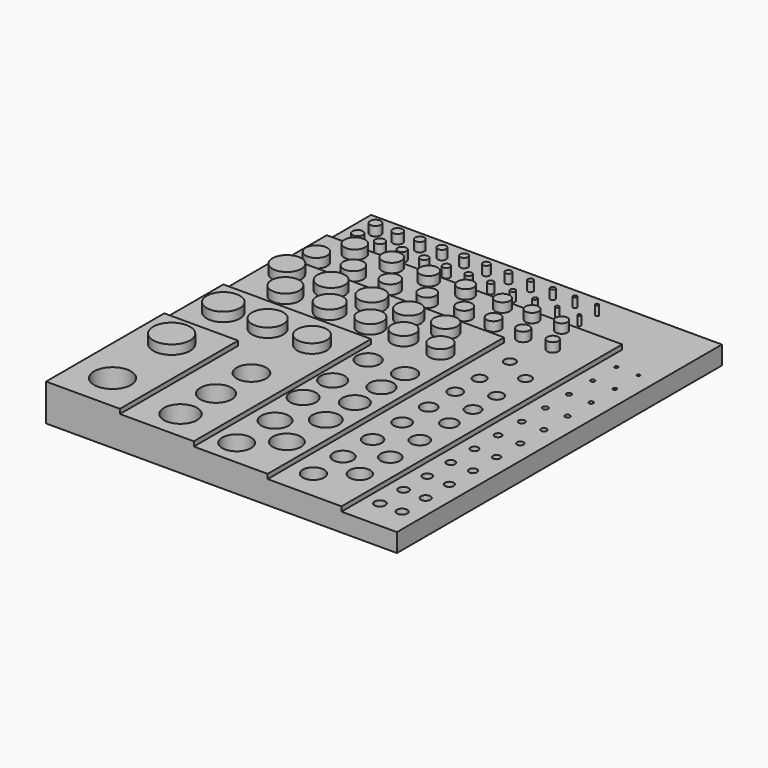
from build123d import *

# Parameters (mm, degrees)
F0_W      = 25.4
F0_H      = 25.4
F1_DEPTH  = 12.7
F2_W      = 25.4
F2_H      = 50.8
F3_DEPTH  = 12.7
F4_W      = 50.8
F4_H      = 50.8
F5_DEPTH  = 11.1252
F6_W      = 50.8
F6_H      = 76.2
F7_DEPTH  = 11.1252
F8_W      = 76.2
F8_H      = 76.2
F9_DEPTH  = 9.525
F10_W     = 76.2
F10_H     = 101.6
F11_DEPTH = 9.525
F12_W     = 101.6
F12_H     = 101.6
F13_DEPTH = 7.9502
F14_W     = 101.6
F14_H     = 120.65
F15_DEPTH = 7.9502
F16_W     = 120.65
F16_H     = 120.65
F17_DEPTH = 6.35
F18_W     = 120.65
F18_H     = 139.7
F19_DEPTH = 6.35
F20_R     = 6.35
F21_DEPTH = 12.701
F22_R     = 6.35
F23_DEPTH = 15.875
F24_R     = 5.715
F24_R_2   = 5.3975
F24_R_3   = 5.08
F25_DEPTH = 15.876
F26_R     = 5.715
F26_R_2   = 5.3975
F26_R_3   = 5.08
F27_DEPTH = 14.3002
F28_R     = 4.318
F28_R_2   = 4.826
F28_R_3   = 4.191
F28_R_4   = 4.064
F28_R_5   = 3.937
F28_R_6   = 3.81
F28_R_7   = 4.699
F28_R_8   = 4.572
F28_R_9   = 4.445
F28_R_10  = 4.953
F29_DEPTH = 15.876
F30_R     = 3.81
F30_R_2   = 4.064
F30_R_3   = 3.937
F30_R_4   = 4.191
F30_R_5   = 4.318
F30_R_6   = 4.445
F30_R_7   = 4.572
F30_R_8   = 4.699
F30_R_9   = 4.826
F30_R_10  = 4.953
F31_DEPTH = 12.7
F32_R     = 3.683
F32_R_2   = 3.556
F32_R_3   = 3.429
F32_R_4   = 3.048
F32_R_5   = 3.175
F32_R_6   = 2.794
F32_R_7   = 2.667
F32_R_8   = 2.54
F32_R_9   = 2.413
F32_R_10  = 2.286
F32_R_11  = 3.302
F32_R_12  = 2.921
F32_R_13  = 2.159
F32_R_14  = 2.032
F32_R_15  = 1.905
F33_DEPTH = 15.876
F34_R     = 3.683
F34_R_2   = 3.556
F34_R_3   = 3.429
F34_R_4   = 3.302
F34_R_5   = 3.048
F34_R_6   = 3.175
F34_R_7   = 2.794
F34_R_8   = 2.921
F34_R_9   = 2.54
F34_R_10  = 2.667
F34_R_11  = 2.286
F34_R_12  = 2.413
F34_R_13  = 2.032
F34_R_14  = 2.159
F34_R_15  = 1.905
F35_DEPTH = 11.1252
F36_R     = 1.8415
F36_R_2   = 1.778
F36_R_3   = 1.7145
F36_R_4   = 1.651
F36_R_5   = 1.5875
F36_R_6   = 1.524
F36_R_7   = 1.4605
F36_R_8   = 1.397
F36_R_9   = 1.3335
F36_R_10  = 1.27
F36_R_11  = 1.2065
F36_R_12  = 1.143
F36_R_13  = 1.0795
F36_R_14  = 1.016
F36_R_15  = 0.9525
F36_R_16  = 0.889
F36_R_17  = 0.8255
F36_R_18  = 0.762
F36_R_19  = 0.6985
F36_R_20  = 0.635
F36_R_21  = 0.5715
F36_R_22  = 0.508
F37_DEPTH = 15.876
F38_R     = 1.778
F38_R_2   = 1.8415
F38_R_3   = 1.7145
F38_R_4   = 1.651
F38_R_5   = 1.5875
F38_R_6   = 1.524
F38_R_7   = 1.4605
F38_R_8   = 1.397
F38_R_9   = 1.3335
F38_R_10  = 1.27
F38_R_11  = 1.2065
F38_R_12  = 1.143
F38_R_13  = 1.0795
F38_R_14  = 1.016
F38_R_15  = 0.9525
F38_R_16  = 0.889
F38_R_17  = 0.8255
F38_R_18  = 0.762
F38_R_19  = 0.6985
F38_R_20  = 0.635
F38_R_21  = 0.5715
F38_R_22  = 0.508
F39_DEPTH = 9.525


with BuildPart() as f1:
    # F0 (on Top) → F1 (new body)
    with BuildSketch(Plane.XY):
        with Locations((12.7, 12.7)):
            Rectangle(F0_W, F0_H)
    extrude(amount=F1_DEPTH)

    # F2 (on Top) → F3 (join)
    with BuildSketch(Plane.XY):
        with Locations((12.7, 25.4)):
            Rectangle(F2_W, F2_H)
    extrude(amount=F3_DEPTH)

    # F4 (on Top) → F5 (join)
    with BuildSketch(Plane.XY):
        with Locations((25.4, 25.4)):
            Rectangle(F4_W, F4_H)
    extrude(amount=F5_DEPTH)

    # F6 (on Top) → F7 (join)
    with BuildSketch(Plane.XY):
        with Locations((25.4, 38.1)):
            Rectangle(F6_W, F6_H)
    extrude(amount=F7_DEPTH)

    # F8 (on Top) → F9 (join)
    with BuildSketch(Plane.XY):
        with Locations((38.1, 38.1)):
            Rectangle(F8_W, F8_H)
    extrude(amount=F9_DEPTH)

    # F10 (on Top) → F11 (join)
    with BuildSketch(Plane.XY):
        with Locations((38.1, 50.8)):
            Rectangle(F10_W, F10_H)
    extrude(amount=F11_DEPTH)

    # F12 (on Top) → F13 (join)
    with BuildSketch(Plane.XY):
        with Locations((50.8, 50.8)):
            Rectangle(F12_W, F12_H)
    extrude(amount=F13_DEPTH)

    # F14 (on Top) → F15 (join)
    with BuildSketch(Plane.XY):
        with Locations((50.8, 60.325)):
            Rectangle(F14_W, F14_H)
    extrude(amount=F15_DEPTH)

    # F16 (on Top) → F17 (join)
    with BuildSketch(Plane.XY):
        with Locations((60.325, 60.325)):
            Rectangle(F16_W, F16_H)
    extrude(amount=F17_DEPTH)

    # F18 (on Top) → F19 (join)
    with BuildSketch(Plane.XY):
        with Locations((60.325, 69.85)):
            Rectangle(F18_W, F18_H)
    extrude(amount=F19_DEPTH)

    # F20 (on Top) → F21 (cut, through all)
    with BuildSketch(Plane.XY):
        with Locations((12.7, 12.7)):
            Circle(F20_R)
    extrude(amount=F21_DEPTH, mode=Mode.SUBTRACT)

    # F22 (on Top) → F23 (join)
    with BuildSketch(Plane.XY):
        with Locations((12.7, 38.1)):
            Circle(F22_R)
    extrude(amount=F23_DEPTH)

    # F24 (on Top) → F25 (cut, through all)
    with BuildSketch(Plane.XY):
        with Locations((38.1, 10.16)):
            Circle(F24_R)
        with Locations((38.1, 25.4)):
            Circle(F24_R_2)
        with Locations((38.1, 40.64)):
            Circle(F24_R_3)
    extrude(amount=F25_DEPTH, mode=Mode.SUBTRACT)

    # F26 (on Top) → F27 (join)
    with BuildSketch(Plane.XY):
        with Locations((10.16, 63.5)):
            Circle(F26_R)
        with Locations((25.4, 63.5)):
            Circle(F26_R_2)
        with Locations((40.64, 63.5)):
            Circle(F26_R_3)
    extrude(amount=F27_DEPTH)

    # F28 (on Top) → F29 (cut, through all)
    with BuildSketch(Plane.XY):
        with Locations((68.58, 46.99)):
            Circle(F28_R)
        with Locations((68.58, 17.78)):
            Circle(F28_R_2)
        with Locations((55.88, 53.34)):
            Circle(F28_R_3)
        with Locations((68.58, 58.42)):
            Circle(F28_R_4)
        with Locations((55.88, 68.58)):
            Circle(F28_R_5)
        with Locations((68.58, 68.58)):
            Circle(F28_R_6)
        with Locations((58.42, 25.4)):
            Circle(F28_R_7)
        with Locations((68.748936, 34.29)):
            Circle(F28_R_8)
        with Locations((55.88, 40.64)):
            Circle(F28_R_9)
        with Locations((58.42, 8.89)):
            Circle(F28_R_10)
    extrude(amount=F29_DEPTH, mode=Mode.SUBTRACT)

    # F30 (on Top) → F31 (join)
    with BuildSketch(Plane.XY):
        with Locations((68.58, 83.82)):
            Circle(F30_R)
        with Locations((55.88, 83.82)):
            Circle(F30_R_2)
        with Locations((62.23, 93.98)):
            Circle(F30_R_3)
        with Locations((49.53, 93.98)):
            Circle(F30_R_4)
        with Locations((44.45, 83.82)):
            Circle(F30_R_5)
        with Locations((36.83, 93.98)):
            Circle(F30_R_6)
        with Locations((30.48, 83.82)):
            Circle(F30_R_7)
        with Locations((22.86, 93.98)):
            Circle(F30_R_8)
        with Locations((15.24, 83.82)):
            Circle(F30_R_9)
        with Locations((7.62, 93.98)):
            Circle(F30_R_10)
    extrude(amount=F31_DEPTH)

    # F32 (on Top) → F33 (cut, through all)
    with BuildSketch(Plane.XY):
        with Locations((83.82, 10.16)):
            Circle(F32_R)
        with Locations((93.655938, 17.78)):
            Circle(F32_R_2)
        with Locations((83.82, 22.86)):
            Circle(F32_R_3)
        with Locations((93.98, 43.18)):
            Circle(F32_R_4)
        with Locations((83.82, 35.56)):
            Circle(F32_R_5)
        with Locations((93.98, 55.88)):
            Circle(F32_R_6)
        with Locations((83.82, 59.69)):
            Circle(F32_R_7)
        with Locations((93.98, 66.04)):
            Circle(F32_R_8)
        with Locations((83.82, 71.12)):
            Circle(F32_R_9)
        with Locations((93.98, 76.2)):
            Circle(F32_R_10)
        with Locations((93.98, 30.48)):
            Circle(F32_R_11)
        with Locations((83.82, 48.26)):
            Circle(F32_R_12)
        with Locations((84.065646, 81.28)):
            Circle(F32_R_13)
        with Locations((93.744539, 88.9)):
            Circle(F32_R_14)
        with Locations((84.30171, 93.98)):
            Circle(F32_R_15)
    extrude(amount=F33_DEPTH, mode=Mode.SUBTRACT)

    # F34 (on Top) → F35 (join)
    with BuildSketch(Plane.XY):
        with Locations((7.62, 106.68)):
            Circle(F34_R)
        with Locations((12.7, 116.84)):
            Circle(F34_R_2)
        with Locations((20.32, 106.68)):
            Circle(F34_R_3)
        with Locations((25.4, 116.84)):
            Circle(F34_R_4)
        with Locations((38.1, 116.84)):
            Circle(F34_R_5)
        with Locations((33.02, 106.68)):
            Circle(F34_R_6)
        with Locations((50.8, 116.84)):
            Circle(F34_R_7)
        with Locations((45.72, 106.68)):
            Circle(F34_R_8)
        with Locations((63.5, 116.84)):
            Circle(F34_R_9)
        with Locations((58.42, 106.68)):
            Circle(F34_R_10)
        with Locations((73.66, 116.84)):
            Circle(F34_R_11)
        with Locations((68.58, 106.68)):
            Circle(F34_R_12)
        with Locations((83.82, 116.84)):
            Circle(F34_R_13)
        with Locations((78.74, 106.68)):
            Circle(F34_R_14)
        with Locations((88.9, 106.68)):
            Circle(F34_R_15)
    extrude(amount=F35_DEPTH)

    # F36 (on Top) → F37 (cut, through all)
    with BuildSketch(Plane.XY):
        with Locations((106.68, 10.16)):
            Circle(F36_R)
        with Locations((114.3, 10.16)):
            Circle(F36_R_2)
        with Locations((106.68, 20.32)):
            Circle(F36_R_3)
        with Locations((114.3, 20.32)):
            Circle(F36_R_4)
        with Locations((106.68, 30.48)):
            Circle(F36_R_5)
        with Locations((114.3, 30.48)):
            Circle(F36_R_6)
        with Locations((106.68, 40.64)):
            Circle(F36_R_7)
        with Locations((114.3, 40.64)):
            Circle(F36_R_8)
        with Locations((106.68, 50.8)):
            Circle(F36_R_9)
        with Locations((114.3, 50.8)):
            Circle(F36_R_10)
        with Locations((106.68, 60.96)):
            Circle(F36_R_11)
        with Locations((114.3, 60.96)):
            Circle(F36_R_12)
        with Locations((106.68, 71.12)):
            Circle(F36_R_13)
        with Locations((114.3, 71.12)):
            Circle(F36_R_14)
        with Locations((106.68, 81.28)):
            Circle(F36_R_15)
        with Locations((114.3, 81.28)):
            Circle(F36_R_16)
        with Locations((106.68, 91.44)):
            Circle(F36_R_17)
        with Locations((114.3, 91.44)):
            Circle(F36_R_18)
        with Locations((106.68, 101.6)):
            Circle(F36_R_19)
        with Locations((114.3, 101.6)):
            Circle(F36_R_20)
        with Locations((106.68, 111.76)):
            Circle(F36_R_21)
        with Locations((114.3, 111.76)):
            Circle(F36_R_22)
    extrude(amount=F37_DEPTH, mode=Mode.SUBTRACT)

    # F38 (on Top) → F39 (join)
    with BuildSketch(Plane.XY):
        with Locations((7.62, 124.46)):
            Circle(F38_R)
        with Locations((7.62, 132.08)):
            Circle(F38_R_2)
        with Locations((15.24, 132.08)):
            Circle(F38_R_3)
        with Locations((15.24, 124.46)):
            Circle(F38_R_4)
        with Locations((22.86, 132.08)):
            Circle(F38_R_5)
        with Locations((22.86, 124.46)):
            Circle(F38_R_6)
        with Locations((30.48, 132.08)):
            Circle(F38_R_7)
        with Locations((30.48, 124.46)):
            Circle(F38_R_8)
        with Locations((38.1, 132.08)):
            Circle(F38_R_9)
        with Locations((38.1, 124.46)):
            Circle(F38_R_10)
        with Locations((45.72, 132.08)):
            Circle(F38_R_11)
        with Locations((45.72, 124.46)):
            Circle(F38_R_12)
        with Locations((53.34, 132.08)):
            Circle(F38_R_13)
        with Locations((53.34, 124.46)):
            Circle(F38_R_14)
        with Locations((60.96, 132.08)):
            Circle(F38_R_15)
        with Locations((60.96, 124.46)):
            Circle(F38_R_16)
        with Locations((68.58, 132.08)):
            Circle(F38_R_17)
        with Locations((68.58, 124.46)):
            Circle(F38_R_18)
        with Locations((76.2, 132.08)):
            Circle(F38_R_19)
        with Locations((76.2, 124.46)):
            Circle(F38_R_20)
        with Locations((83.82, 132.08)):
            Circle(F38_R_21)
        with Locations((83.82, 124.46)):
            Circle(F38_R_22)
    extrude(amount=F39_DEPTH)


solid = f1.part
